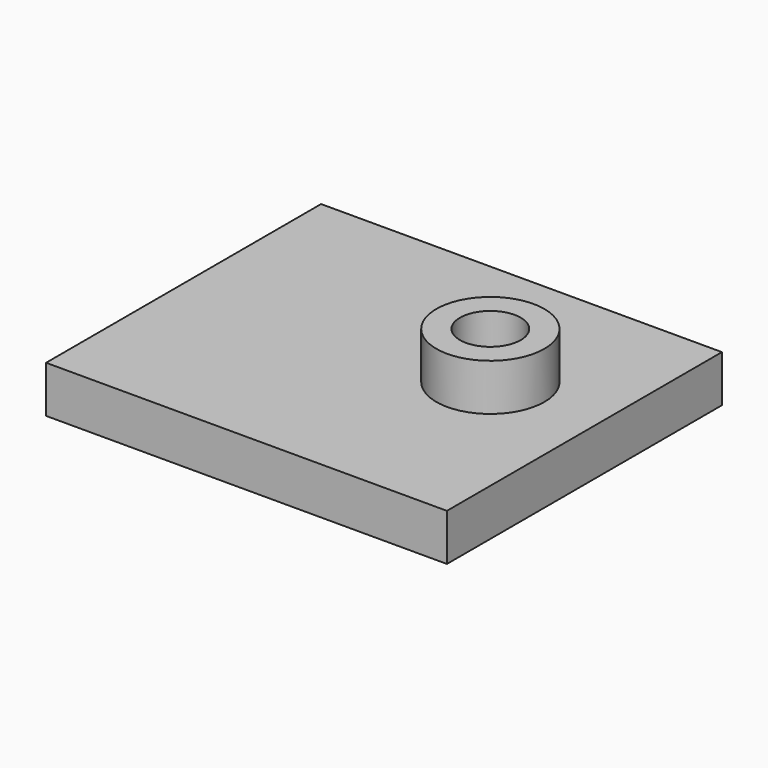
from build123d import *

# Parameters (mm, degrees)
F0_R     = 14.6617456109
F0_R_2   = 8.2457026682
F1_DEPTH = 25.4
F0_W     = 108.8017215952
F0_H     = 93.3053791523
F2_DEPTH = 12.7


with BuildPart() as f1:
    # F0 (on Top) → F1 (new body)
    with BuildSketch(Plane.XY):
        with Locations((-42.5586439669, 0)):
            Circle(F0_R)
        with Locations((-42.5586439669, 0)):
            Circle(F0_R_2, mode=Mode.SUBTRACT)
    extrude(amount=F1_DEPTH)

    # F0 (on Top) → F2 (join)
    with BuildSketch(Plane.XY):
        with Locations((-67.2132899053, -5.2682757378)):
            Rectangle(F0_W, F0_H)
        with Locations((-42.5586439669, 0)):
            Circle(F0_R, mode=Mode.SUBTRACT)
    extrude(amount=F2_DEPTH)


solid = f1.part
